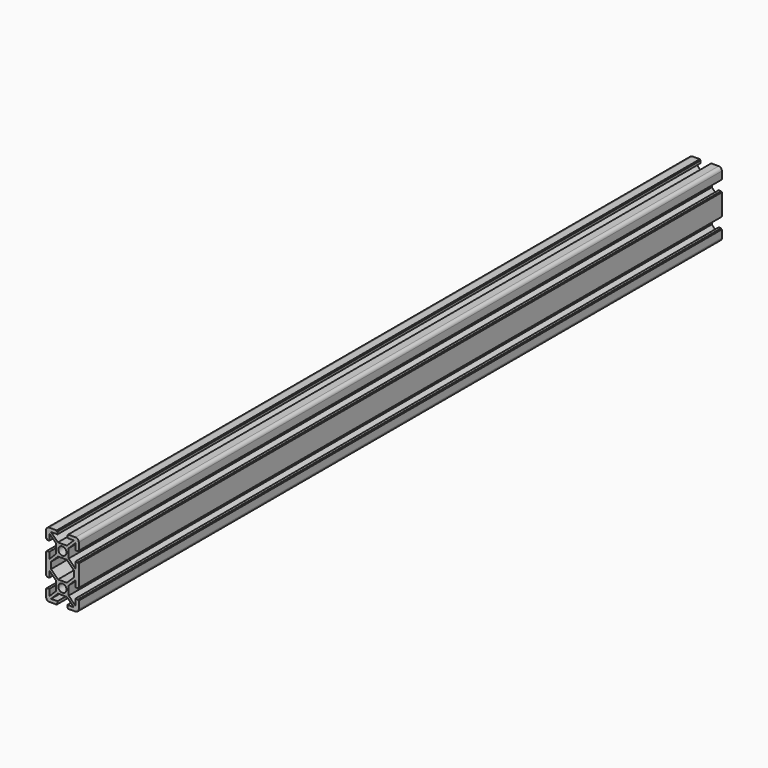
from build123d import *

# Parameters (mm, degrees)
F0_R     = 2.5
F2_DEPTH = 492


with BuildPart() as f2:
    # F0 (on Front) → F2 (new body)
    with BuildSketch(Plane.XZ):
        with BuildLine():
            Line((6.5, 0), (2, 0))
            ThreePointArc((2, 0), (0.5857864376, -0.5857864376), (0, -2))
            Line((0, -2), (0, -6.4857100192))
            Line((0, -6.4857100192), (0.4948230833, -6.489995392))
            Line((0.4948230833, -6.489995392), (0.4948230833, -7))
            Line((0.4948230833, -7), (2, -7))
            Line((2, -7), (2, -3.0833937817))
            Line((2, -3.0833937817), (6.2, -7.2637052917))
            Line((6.2, -7.2637052917), (6.2, -12.7393398282))
            Line((6.2, -12.7393398282), (2, -16.9393398282))
            Line((2, -16.9393398282), (2, -13))
            Line((2, -13), (0.5, -13))
            Line((0.5, -13), (0.5, -13.5))
            Line((0.5, -13.5), (0, -13.5))
            Line((0, -13.5), (0, -26.4857100192))
            Line((0, -26.4857100192), (0.4948230833, -26.489995392))
            Line((0.4948230833, -26.489995392), (0.4948230833, -27))
            Line((0.4948230833, -27), (2, -27))
            Line((2, -27), (2, -23.0833937817))
            Line((2, -23.0833937817), (6.2, -27.2637052917))
            Line((6.2, -27.2637052917), (6.2, -32.7393398282))
            Line((6.2, -32.7393398282), (2, -36.9393398282))
            Line((2, -36.9393398282), (2, -33))
            Line((2, -33), (0.5, -33))
            Line((0.5, -33), (0.5, -33.5))
            Line((0.5, -33.5), (0, -33.5))
            Line((0, -33.5), (0, -38))
            ThreePointArc((0, -38), (0.5857864376, -39.4142135624), (2, -40))
            Line((2, -40), (6.5, -40))
            Line((6.5, -40), (6.5, -39.5))
            Line((6.5, -39.5), (7, -39.5))
            Line((7, -39.5), (7, -38))
            Line((7, -38), (3.0606601718, -38))
            Line((3.0606601718, -38), (7.2606601718, -33.8))
            Line((7.2606601718, -33.8), (12.7393398282, -33.8))
            Line((12.7393398282, -33.8), (16.9393398282, -38))
            Line((16.9393398282, -38), (13.015800612, -38))
            Line((13.015800612, -38), (13.015800612, -39.5))
            Line((13.015800612, -39.5), (13.5, -39.5))
            Line((13.5, -39.5), (13.5, -40))
            Line((13.5, -40), (18, -40))
            ThreePointArc((18, -40), (19.4142135624, -39.4142135624), (20, -38))
            Line((20, -38), (20, -33.4626608249))
            Line((20, -33.4626608249), (19.5363645284, -33.4624647606))
            Line((19.5363645284, -33.4624647606), (19.532302618, -32.9822008219))
            Line((19.532302618, -32.9822008219), (18, -32.9822008219))
            Line((18, -32.9822008219), (17.9998106987, -36.9393398192))
            Line((17.9998106987, -36.9393398192), (13.8264202785, -32.765949399))
            Line((13.8264202785, -32.765949399), (13.8264202785, -27.246708479))
            Line((13.8264202785, -27.246708479), (17.9998106987, -23.0606601627))
            Line((17.9998106987, -23.0606601627), (17.9998106987, -26.9999999909))
            Line((17.9998106987, -26.9999999909), (19.4998106987, -26.9999999909))
            Line((19.4998106987, -26.9999999909), (19.4998106987, -26.4999999909))
            Line((19.4998106987, -26.4999999909), (20, -26.4999999909))
            Line((20, -26.4999999909), (20, -13.4626608249))
            Line((20, -13.4626608249), (19.5363645284, -13.4624647606))
            Line((19.5363645284, -13.4624647606), (19.532302618, -12.9822008219))
            Line((19.532302618, -12.9822008219), (18, -12.9822008219))
            Line((18, -12.9822008219), (17.9998106987, -16.9393398192))
            Line((17.9998106987, -16.9393398192), (13.8264202785, -12.765949399))
            Line((13.8264202785, -12.765949399), (13.8264202785, -7.246708479))
            Line((13.8264202785, -7.246708479), (17.9998106987, -3.0606601627))
            Line((17.9998106987, -3.0606601627), (17.9998106987, -6.9999999909))
            Line((17.9998106987, -6.9999999909), (19.4998106987, -6.9999999909))
            Line((19.4998106987, -6.9999999909), (19.4998106987, -6.4999999909))
            Line((19.4998106987, -6.4999999909), (20, -6.4999999909))
            Line((20, -6.4999999909), (20, -2))
            ThreePointArc((20, -2), (19.4142135624, -0.5857864376), (18, 0))
            Line((18, 0), (13.4962801728, 0.0202495232))
            Line((13.4962801728, 0.0202495232), (13.5, -0.5))
            Line((13.5, -0.5), (13.015800612, -0.5))
            Line((13.015800612, -0.5), (13.015800612, -2))
            Line((13.015800612, -2), (16.9393398282, -2))
            Line((16.9393398282, -2), (12.7393121854, -6.2000276428))
            Line((12.7393121854, -6.2000276428), (7.2606601718, -6.2))
            Line((7.2606601718, -6.2), (3.0606601718, -2))
            Line((3.0606601718, -2), (7, -2))
            Line((7, -2), (7, -0.5))
            Line((7, -0.5), (6.5, -0.5))
            Line((6.5, -0.5), (6.5, 0))
        make_face()
        with Locations((10, -30)):
            Circle(F0_R, mode=Mode.SUBTRACT)
        Polygon((7.2606601718, -13.8), (12.7393398282, -13.8), (16.9393398282, -18), (16.9393398282, -22), (12.7393121854, -26.2000276428), (7.2606601718, -26.2), (3.0606601718, -22), (3.0606601718, -18), align=None, mode=Mode.SUBTRACT)
        with Locations((10, -10)):
            Circle(F0_R, mode=Mode.SUBTRACT)
    extrude(amount=F2_DEPTH)


solid = f2.part
